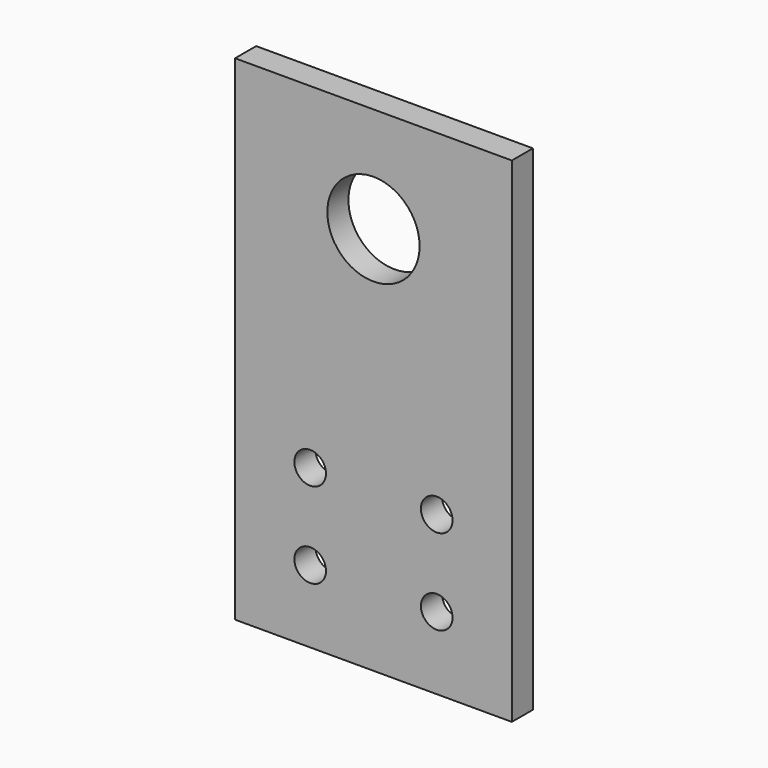
from build123d import *

# Parameters (mm, degrees)
F0_W     = 210
F0_H     = 375
F0_R     = 12
F0_R_2   = 35
F1_DEPTH = 10


with BuildPart() as f1:
    # F0 (on Front) → F1 (new body, symmetric)
    with BuildSketch(Plane.XZ):
        Rectangle(F0_W, F0_H)
        with Locations((-48, -132.5)):
            Circle(F0_R, mode=Mode.SUBTRACT)
        with Locations((-48, -67.5)):
            Circle(F0_R, mode=Mode.SUBTRACT)
        with Locations((48, -132.5)):
            Circle(F0_R, mode=Mode.SUBTRACT)
        with Locations((48, -67.5)):
            Circle(F0_R, mode=Mode.SUBTRACT)
        with Locations((0, 107.5)):
            Circle(F0_R_2, mode=Mode.SUBTRACT)
    extrude(amount=F1_DEPTH, both=True)


solid = f1.part
